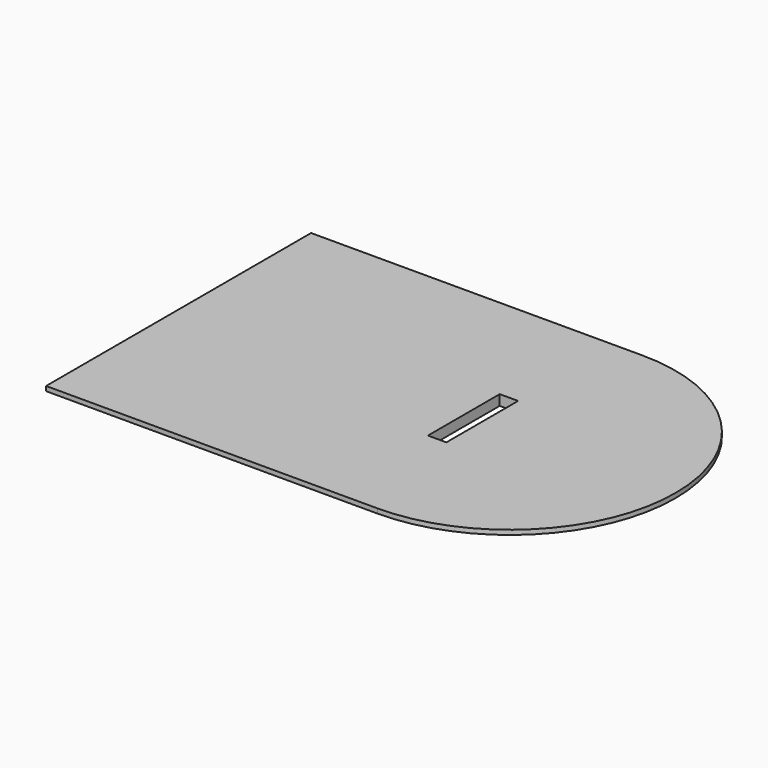
from build123d import *

# Parameters (mm, degrees)
F1_DEPTH = 28.575
F2_SIZE2 = 15.875
F2_SIZE  = 50.8


with BuildPart() as f1:
    # F0 (on Top) → F1 (new body)
    with BuildSketch(Plane.XY):
        with BuildLine():
            Line((228.6, 457.2), (-685.8, 457.2))
            Line((-685.8, 457.2), (-685.8, -457.2))
            Line((-685.8, -457.2), (228.6, -457.2))
            ThreePointArc((228.6, -457.2), (551.8892203585, -323.2892203585), (685.8, 0))
            ThreePointArc((685.8, 0), (551.8892203585, 323.2892203585), (228.6, 457.2))
        make_face()
        Polygon((152.4, 123.825), (152.4, 0), (152.4, -123.825), (101.6, -123.825), (101.6, 123.825), align=None, mode=Mode.SUBTRACT)
    extrude(amount=F1_DEPTH)

    # F2
    f2_edges = [f1.edges().sort_by_distance(p)[0] for p in [
        (-228.6, 457.2, 0),
        (685.8, 0, 0),
        (-228.6, -457.2, 0),
    ]]
    f2_side = f1.faces().sort_by_distance((-46.847704, 0, 0))[0]
    chamfer(f2_edges, length=F2_SIZE, length2=F2_SIZE2, reference=f2_side)


solid = f1.part
